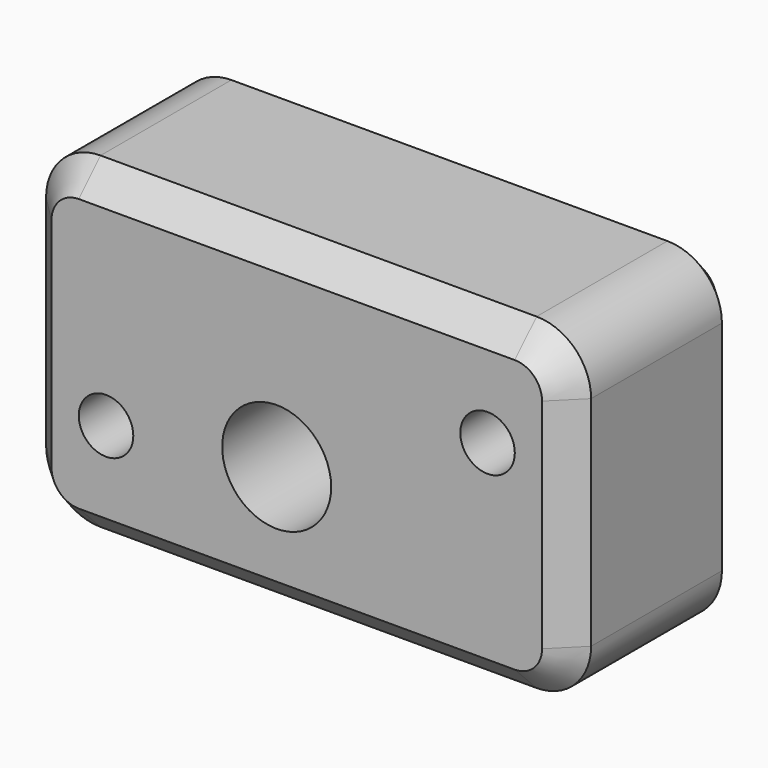
from build123d import *

# Parameters (mm, degrees)
F0_W     = 127
F0_H     = 76.2
F0_R     = 6.35
F1_DEPTH = 50.8
F2_R     = 12.7
F3_DEPTH = 60.452
F4_R     = 12.7
F5_R     = 12.7
F6_R     = 12.7
F7_R     = 12.7
F8_SIZE  = 6.35
F9_SIZE  = 6.35


with BuildPart() as f1:
    # F0 (on Front) → F1 (new body)
    with BuildSketch(Plane.XZ):
        with Locations((-1.246627, -5.986213)):
            Rectangle(F0_W, F0_H)
        with Locations((-45.696627, -18.686213)):
            Circle(F0_R, mode=Mode.SUBTRACT)
        with Locations((43.203373, 6.713787)):
            Circle(F0_R, mode=Mode.SUBTRACT)
    extrude(amount=F1_DEPTH)

    # F2 (on face) → F3 (cut)
    with BuildSketch(Plane.XZ.offset(50.8)):
        with Locations((-5.936226, -14.195322)):
            Circle(F2_R)
    extrude(amount=-F3_DEPTH, mode=Mode.SUBTRACT)

    # F4
    f4_edges = [f1.edges().sort_by_distance(p)[0] for p in [
        (-64.746627, -25.4, 32.113787),
    ]]
    fillet(f4_edges, radius=F4_R)

    # F5
    f5_edges = [f1.edges().sort_by_distance(p)[0] for p in [
        (62.253373, -25.4, 32.113787),
    ]]
    fillet(f5_edges, radius=F5_R)

    # F6
    f6_edges = [f1.edges().sort_by_distance(p)[0] for p in [
        (62.253373, -25.4, -44.086213),
    ]]
    fillet(f6_edges, radius=F6_R)

    # F7
    f7_edges = [f1.edges().sort_by_distance(p)[0] for p in [
        (-64.746627, -25.4, -44.086213),
    ]]
    fillet(f7_edges, radius=F7_R)

    # F8
    f8_edges = [f1.edges().sort_by_distance(p)[0] for p in [
        (-1.246627, 0, 32.113787),
    ]]
    chamfer(f8_edges, length=F8_SIZE)

    # F9
    f9_edges = [f1.edges().sort_by_distance(p)[0] for p in [
        (-1.246627, -50.8, 32.113787),
    ]]
    chamfer(f9_edges, length=F9_SIZE)


solid = f1.part
